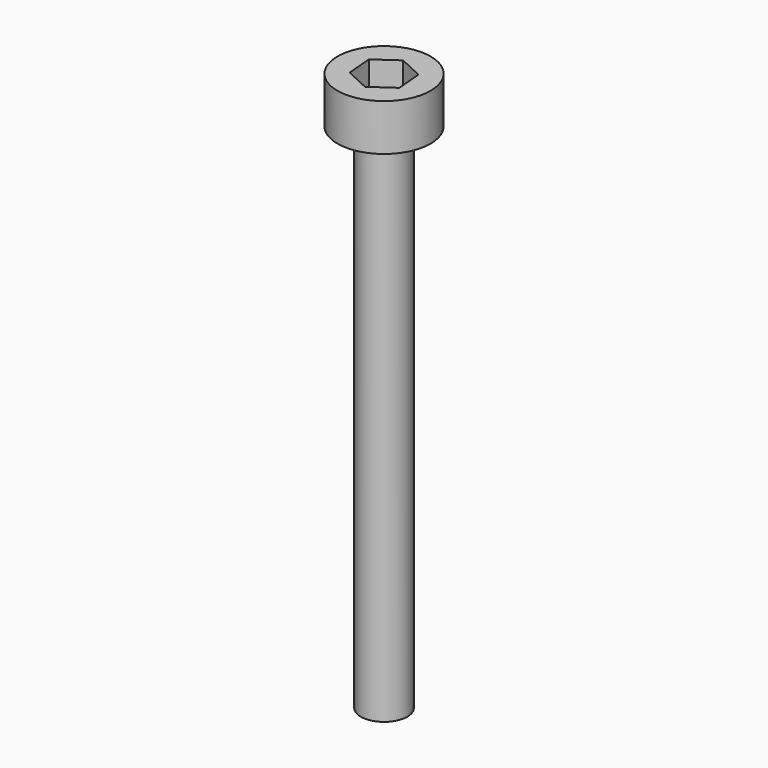
from build123d import *

# Parameters (mm, degrees)
F0_R     = 3.175
F1_DEPTH = 3.175
F2_R     = 1.5875
F3_DEPTH = 34.925
F5_DEPTH = 2.38125


with BuildPart() as f1:
    # F0 (on Top) → F1 (new body)
    with BuildSketch(Plane.XY):
        Circle(F0_R)
    extrude(amount=F1_DEPTH)

    # F2 (on face) → F3 (join)
    with BuildSketch(Plane(origin=(0, 0, 0), x_dir=(1, 0, 0), z_dir=(0, 0, -1))):
        Circle(F2_R)
    extrude(amount=F3_DEPTH)

    # F4 (on face) → F5 (cut)
    with BuildSketch(Plane.XY.offset(3.175)):
        Polygon((1.50224, 1.050468), (-0.158612, 1.826212), (-1.660852, 0.775744), (-1.50224, -1.050468), (0.158612, -1.826212), (1.660852, -0.775744), align=None)
    extrude(amount=-F5_DEPTH, mode=Mode.SUBTRACT)


solid = f1.part
